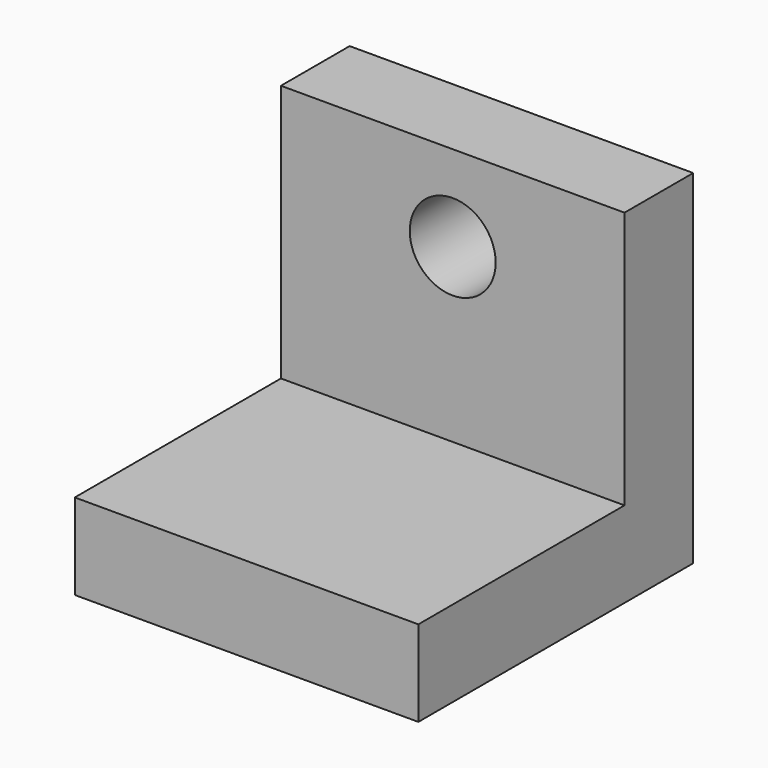
from build123d import *

# Parameters (mm, degrees)
F0_W     = 50.800004
F0_H     = 50.8
F0_R     = 6.35
F1_DEPTH = 12.7
F2_W     = 50.800004
F2_H     = 12.7
F3_DEPTH = 38.1


with BuildPart() as f1:
    # F0 (on Front) → F1 (new body)
    with BuildSketch(Plane.XZ):
        Rectangle(F0_W, F0_H)
        with Locations((0, 12.7)):
            Circle(F0_R, mode=Mode.SUBTRACT)
    extrude(amount=F1_DEPTH)

    # F2 (on face) → F3 (join)
    with BuildSketch(Plane.XZ.offset(12.7)):
        with Locations((0, -19.05)):
            Rectangle(F2_W, F2_H)
    extrude(amount=F3_DEPTH)


solid = f1.part
